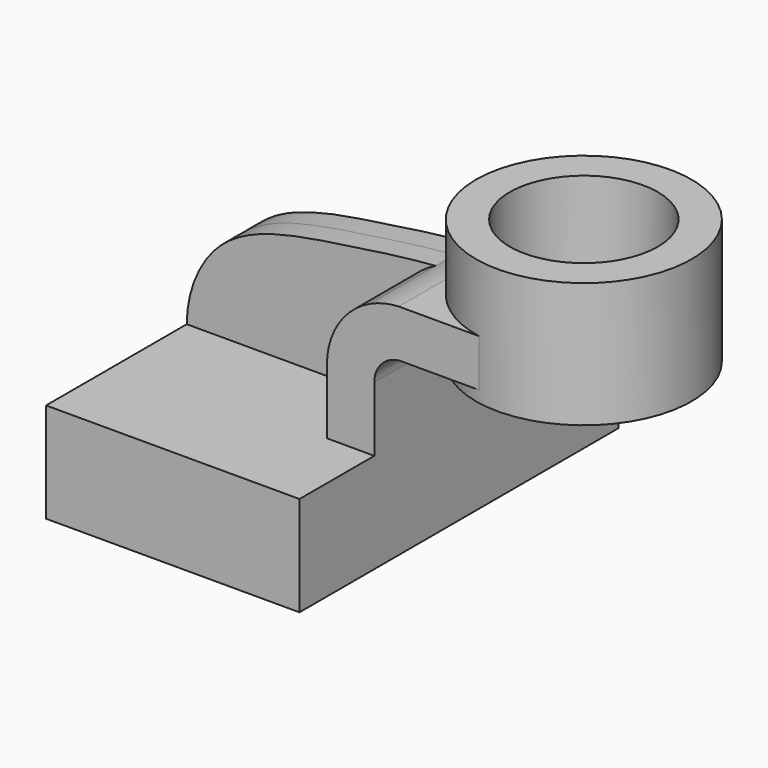
from build123d import *

# Parameters (mm, degrees)
F1_DEPTH = 40
F0_W     = 16.6528351631
F0_H     = 9.5000012398
F2_DEPTH = 21.25
F3_DEPTH = 4.75
F4_W     = 21.616961807
F4_H     = 25.0849984586
F6_R     = 14.8395372195
F7_DEPTH = 61.2207443843


with BuildPart() as f1:
    # F0 (on Front) → F1 (new body, symmetric)
    with BuildSketch(Plane.XZ):
        Polygon((41.2999987602, 20), (0, 20), (0, 0), (50.8, 0), (50.8, 20), align=None)
    extrude(amount=F1_DEPTH, both=True)

    # F0 (on Front) → F2 (join, symmetric)
    with BuildSketch(Plane.XZ):
        with BuildLine():
            Line((41.2999987602, 32.9745605347), (41.2999987602, 20))
            Line((41.2999987602, 20), (50.8, 20))
            Line((50.8, 20), (50.8, 32.9745605347))
            ThreePointArc((50.8, 32.9745605347), (52.2828290923, 36.7243488741), (55.9292304386, 38.4458168319))
            Line((55.9292304386, 38.4458168319), (59.3774616718, 38.4458168319))
            Line((59.3774616718, 38.4458168319), (59.3774616718, 47.9458180717))
            Line((59.3774616718, 47.9458180717), (55.6982133685, 47.9458180717))
            ThreePointArc((55.6982133685, 47.9458180717), (52.7267880944, 47.529144235), (49.8979743732, 46.5287452266))
            ThreePointArc((49.8979743732, 46.5287452266), (43.6307882116, 41.000161872), (41.2999987602, 32.9745605347))
        make_face()
        with Locations((67.7038792534, 43.1958174518)):
            Rectangle(F0_W, F0_H)
    extrude(amount=F2_DEPTH, both=True)

    # F0 (on Front) → F3 (join, symmetric)
    with BuildSketch(Plane.XZ):
        with BuildLine():
            add(Edge.make_bspline(
                [(0, 20), (0, 26.1283031877), (5.5940842359, 39.9914167736), (28.9335310701, 43.9900934342), (44.6188528976, 46.1604342678), (49.8979743732, 46.5287452266)],
                knots=[0, 0, 0, 0, 0.31410828, 0.6650486398, 1, 1, 1, 1], degree=3))
            Line((0, 20), (41.2999987602, 20))
            Line((41.2999987602, 20), (41.2999987602, 32.9745605347))
            ThreePointArc((41.2999987602, 32.9745605347), (43.6307882116, 41.000161872), (49.8979743732, 46.5287452266))
        make_face()
    extrude(amount=F3_DEPTH, both=True)

    # F4 (on Front) → F5 (revolve)
    with BuildSketch(Plane.XZ):
        with Locations((64.9921540171, 48.677245155)):
            Rectangle(F4_W, F4_H)
    revolve(axis=Axis((75.8006349206, 0, 48.677245155), (0, 0, -1)))

    # F6 (on face) → F7 (cut, through all)
    with BuildSketch(Plane.XY.offset(61.2197443843)):
        with Locations((75.8006349206, 0)):
            Circle(F6_R)
    extrude(amount=-F7_DEPTH, mode=Mode.SUBTRACT)


solid = f1.part
